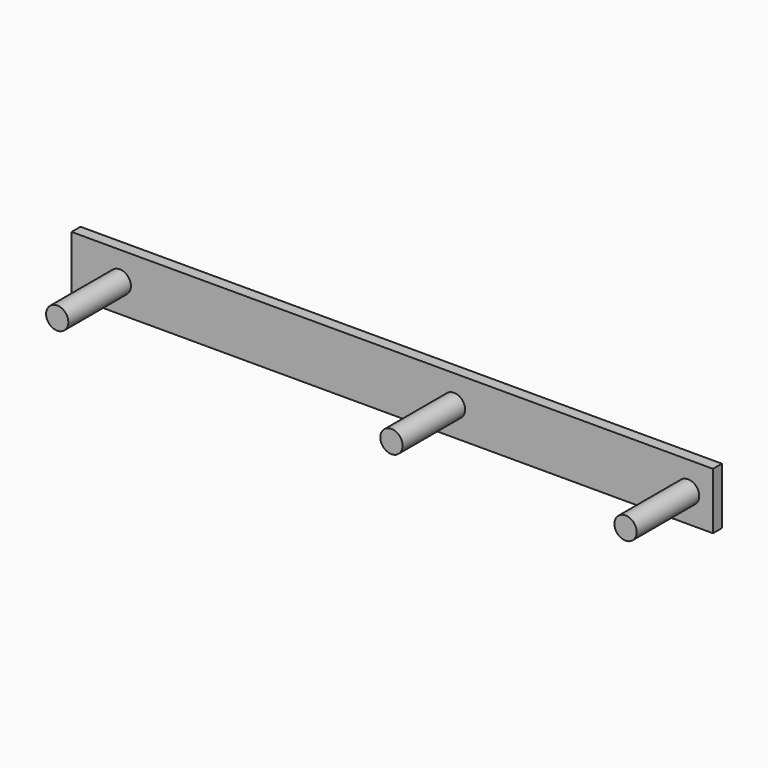
from build123d import *

# Parameters (mm, degrees)
F0_W     = 127
F0_H     = 25.4
F1_DEPTH = 5
F2_W     = 160
F2_H     = 25.4
F3_DEPTH = 5
F4_R     = 4.9784
F5_DEPTH = 40


with BuildPart() as f1:
    # F0 (on Front) → F1 (new body)
    with BuildSketch(Plane.XZ):
        Rectangle(F0_W, F0_H)
    extrude(amount=-F1_DEPTH)

    # F2 (on Front) → F3 (join, through all)
    with BuildSketch(Plane.XZ):
        with Locations((-143.5, 0)):
            Rectangle(F2_W, F2_H)
    extrude(amount=-F3_DEPTH)

    # F4 (on face) → F5 (join)
    with BuildSketch(Plane(origin=(0, 5, 0), x_dir=(-1, 0, 0), z_dir=(0, 1, 0))):
        with Locations((-52.375, 0)):
            Circle(F4_R)
        with Locations((52.375, 0)):
            Circle(F4_R)
        with Locations((201.934084, 0)):
            Circle(F4_R)
    extrude(amount=-F5_DEPTH)


solid = f1.part
